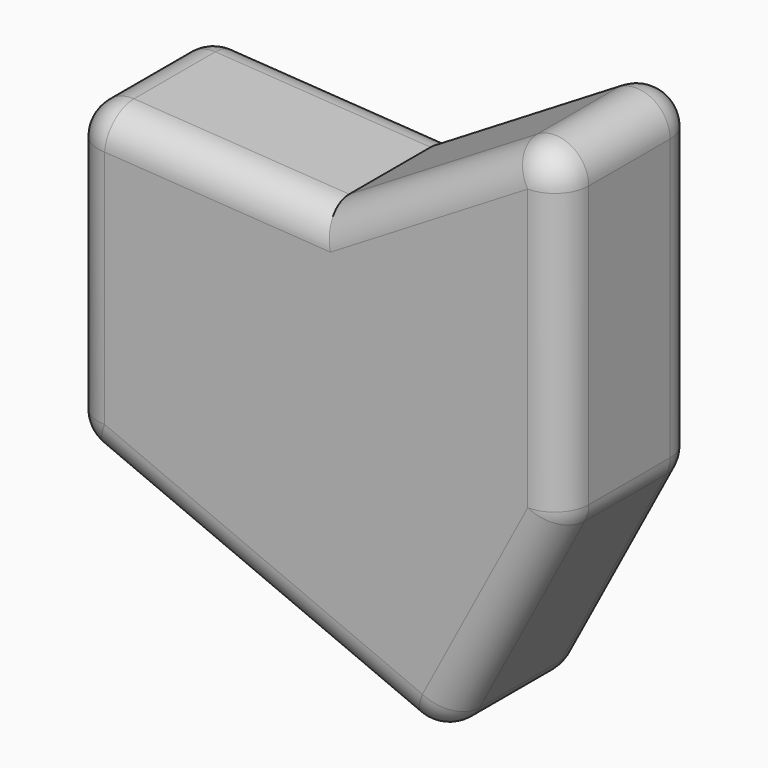
from build123d import *

# Parameters (mm, degrees)
F1_DEPTH = 25.4
F2_R     = 5.08


with BuildPart() as f1:
    # F0 (on Front) → F1 (new body)
    with BuildSketch(Plane.XZ):
        Polygon((-40.838003, 44.727325), (-40.838003, 0), (14.175877, -23.219109), (32.721341, 11.731759), (32.721341, 64.065665), (-3.177345, 42.283207), align=None)
    extrude(amount=F1_DEPTH)

    # F2
    f2_edges = [f1.edges().sort_by_distance(p)[0] for p in [
        (32.721341, -25.4, 37.898712),
        (32.721341, 0, 37.898712),
        (32.721341, -12.7, 64.065665),
        (32.721341, -12.7, 11.731759),
        (-40.838003, -12.7, 44.727325),
        (-40.838003, 0, 22.363663),
        (-40.838003, -25.4, 22.363663),
        (-40.838003, -12.7, 0),
        (-22.007674, 0, 43.505266),
        (14.771998, 0, 53.174436),
        (-22.007674, -25.4, 43.505266),
        (14.771998, -25.4, 53.174436),
        (-13.331063, -25.4, -11.609554),
        (-13.331063, 0, -11.609554),
        (23.448609, 0, -5.743675),
        (14.175877, -12.7, -23.219109),
        (23.448609, -25.4, -5.743675),
    ]]
    fillet(f2_edges, radius=F2_R)


solid = f1.part
